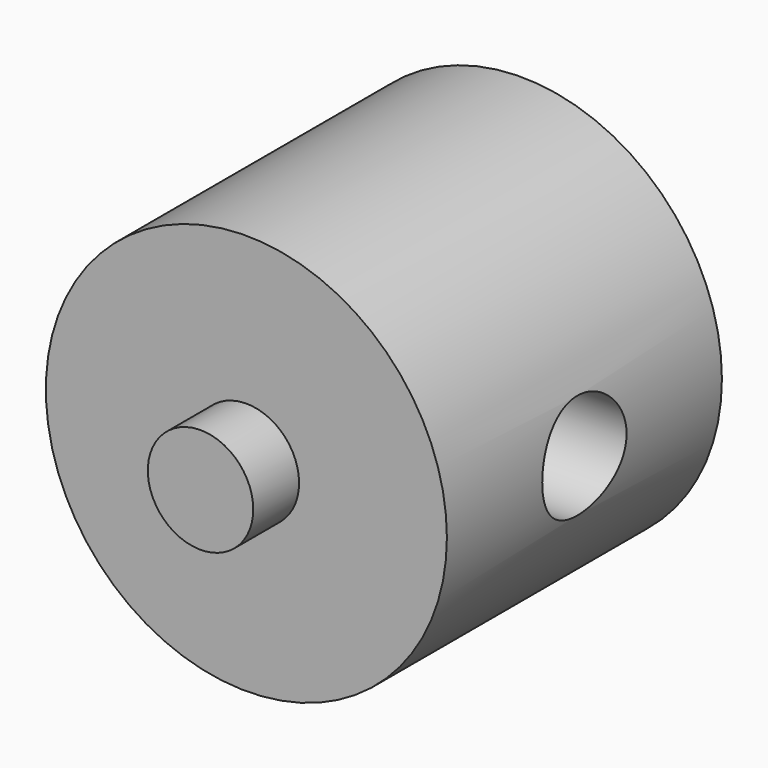
from build123d import *

# Parameters (mm, degrees)
F0_R     = 11.1125
F0_R_2   = 2.921
F1_DEPTH = 9.525
F2_DEPTH = 12.7
F3_R     = 2.921
F4_DEPTH = 27.813


with BuildPart() as f1:
    # F0 (on Front) → F1 (new body, symmetric)
    with BuildSketch(Plane.XZ):
        Circle(F0_R)
        Circle(F0_R_2, mode=Mode.SUBTRACT)
    extrude(amount=F1_DEPTH, both=True)

    # F0 (on Front) → F2 (join, symmetric)
    with BuildSketch(Plane.XZ):
        Circle(F0_R_2)
    extrude(amount=F2_DEPTH, both=True)

    # F3 (on Right) → F4 (cut, symmetric)
    with BuildSketch(Plane.YZ):
        Circle(F3_R)
    extrude(amount=F4_DEPTH, both=True, mode=Mode.SUBTRACT)


solid = f1.part
